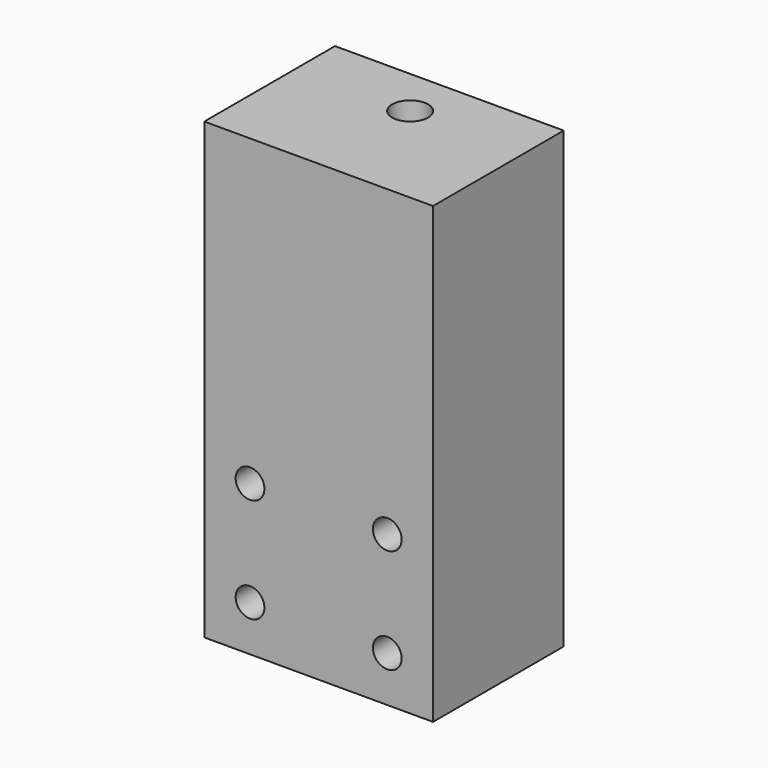
from build123d import *

# Parameters (mm, degrees)
SKETCH_W      = 25
SKETCH_H      = 69.5
PAD_DEPTH     = 17.5
POCKET_DEPTH  = 4.5
SKETCH003_R   = 2.75
HOLE001_DEPTH = 12
SKETCH004_R   = 2.2
HOLE_DEPTH    = 25.001


with BuildPart() as part:
    # Sketch → Pad (new body, symmetric)
    with BuildSketch(Plane.YZ):
        with Locations((42.5, -44.75)):
            Rectangle(SKETCH_W, SKETCH_H)
    extrude(amount=PAD_DEPTH, both=True)

    # Sketch002 → Pocket (cut)
    with BuildSketch(Plane(origin=(0, 0, -18), x_dir=(0, -1, 0), z_dir=(0, 0, 1))):
        Polygon((-55, -4.25), (-55, 4.25), (-45.046262, 4.25), (-42.592523, 0), (-45.046262, -4.25), align=None)
    extrude(amount=-POCKET_DEPTH, mode=Mode.SUBTRACT)

    # Sketch003 (on Face2 of Pocket) → Hole001 (cut)
    with BuildSketch(Plane(origin=(0, 0, -10), x_dir=(0, -1, 0), z_dir=(0, 0, 1))):
        with Locations((-47.5, 0)):
            Circle(SKETCH003_R)
    extrude(amount=-HOLE001_DEPTH, mode=Mode.SUBTRACT)

    # Sketch004 (on Face6 of Hole001) → Hole (cut, through all)
    with BuildSketch(Plane.ZX.offset(55)):
        with Locations((-72.5, 10.5)):
            Circle(SKETCH004_R)
        with Locations((-56.5, 10.5)):
            Circle(SKETCH004_R)
        with Locations((-72.5, -10.5)):
            Circle(SKETCH004_R)
        with Locations((-56.5, -10.5)):
            Circle(SKETCH004_R)
    extrude(amount=-HOLE_DEPTH, mode=Mode.SUBTRACT)


solid = part.part
